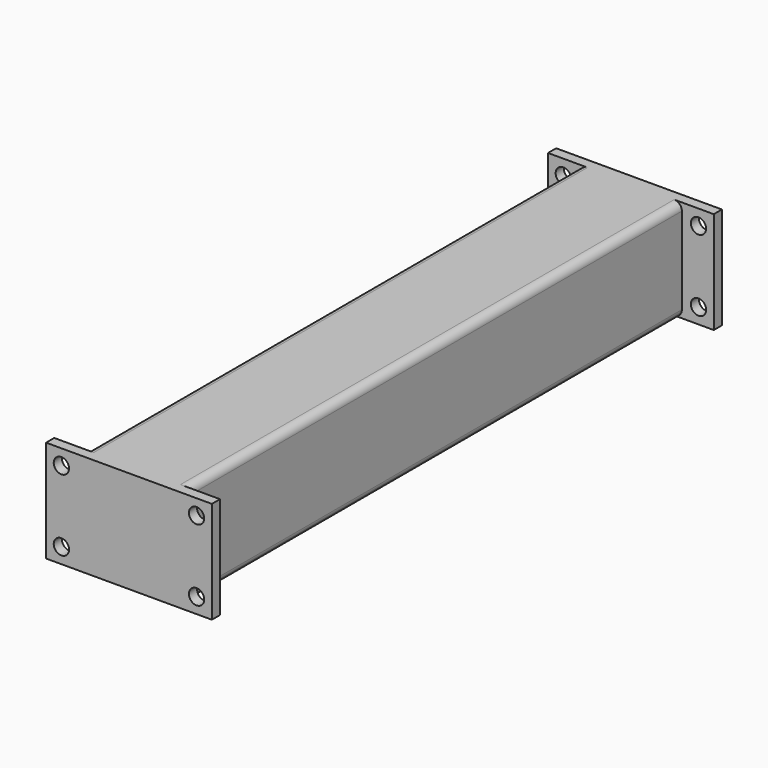
from build123d import *

# Parameters (mm, degrees)
F1_DEPTH = 484
F3_W     = 130
F3_H     = 80
F3_R     = 6
F4_DEPTH = 8
F6_W     = 130
F6_H     = 80
F6_R     = 6
F7_DEPTH = 8


with BuildPart() as f1:
    # F0 (on Front) → F1 (new body)
    with BuildSketch(Plane.XZ):
        with BuildLine():
            ThreePointArc((40, 34), (38.2426406871, 38.2426406871), (34, 40))
            Line((34, 40), (-34, 40))
            ThreePointArc((-34, 40), (-38.2426406871, 38.2426406871), (-40, 34))
            Line((-40, 34), (-40, -34))
            ThreePointArc((-40, -34), (-38.2426406871, -38.2426406871), (-34, -40))
            Line((-34, -40), (34, -40))
            ThreePointArc((34, -40), (38.2426406871, -38.2426406871), (40, -34))
            Line((40, -34), (40, 34))
        make_face()
        with BuildLine():
            ThreePointArc((-36, 34), (-35.4142135624, 35.4142135624), (-34, 36))
            Line((-34, 36), (34, 36))
            ThreePointArc((34, 36), (35.4142135624, 35.4142135624), (36, 34))
            Line((36, 34), (36, -34))
            ThreePointArc((36, -34), (35.4142135624, -35.4142135624), (34, -36))
            Line((34, -36), (-34, -36))
            ThreePointArc((-34, -36), (-35.4142135624, -35.4142135624), (-36, -34))
            Line((-36, -34), (-36, 34))
        make_face(mode=Mode.SUBTRACT)
    extrude(amount=-F1_DEPTH)

    # F3 (on offset) → F4 (join)
    with BuildSketch(Plane.XZ.offset(8)):
        Rectangle(F3_W, F3_H)
        with Locations((-53, -28)):
            Circle(F3_R, mode=Mode.SUBTRACT)
        with Locations((53, -28)):
            Circle(F3_R, mode=Mode.SUBTRACT)
        with Locations((-53, 28)):
            Circle(F3_R, mode=Mode.SUBTRACT)
        with Locations((53, 28)):
            Circle(F3_R, mode=Mode.SUBTRACT)
    extrude(amount=-F4_DEPTH)

    # F6 (on offset) → F7 (join)
    with BuildSketch(Plane(origin=(0, 492, 0), x_dir=(-1, 0, 0), z_dir=(0, 1, 0))):
        Rectangle(F6_W, F6_H)
        with Locations((-53, -28)):
            Circle(F6_R, mode=Mode.SUBTRACT)
        with Locations((53, -28)):
            Circle(F6_R, mode=Mode.SUBTRACT)
        with Locations((-53, 28)):
            Circle(F6_R, mode=Mode.SUBTRACT)
        with Locations((53, 28)):
            Circle(F6_R, mode=Mode.SUBTRACT)
    extrude(amount=-F7_DEPTH)


solid = f1.part
